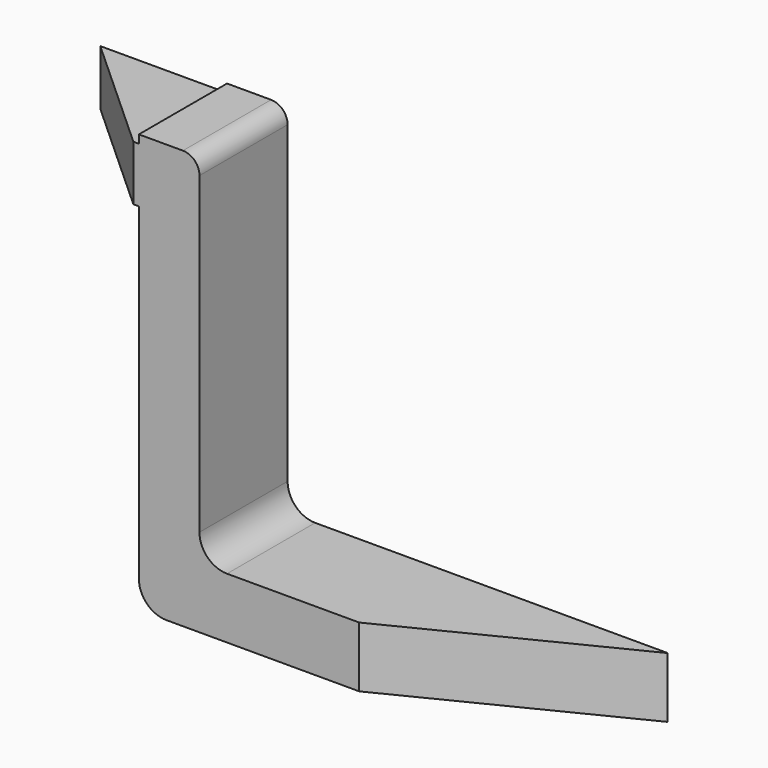
from build123d import *

# Parameters (mm, degrees)
BOX088_W                = 80
BOX088_H                = 20
BOX088_DEPTH            = 11
BOX089_W                = 34
BOX089_H                = 20
BOX089_DEPTH            = 10
BOX087_W                = 11
BOX087_H                = 20
BOX087_DEPTH            = 76
FILLET001006007031013_R = 5
FILLET001006007031014_R = 3
CHAMFER_SIZE2           = 22
CHAMFER_SIZE            = 19.99
CHAMFER011006013_SIZE2  = 19.99
CHAMFER011006013_SIZE   = 40


with BuildPart() as cube:
    # Box088 → Box088 (new body)
    with BuildSketch(Plane.XY):
        with Locations((40, 10)):
            Rectangle(BOX088_W, BOX088_H)
    extrude(amount=BOX088_DEPTH)


with BuildPart() as box089:
    # Box089 → Box089 (new body)
    with BuildSketch(Plane(origin=(-23, 0, 64.5), x_dir=(1, 0, 0), z_dir=(0, 0, 1))):
        with Locations((17, 10)):
            Rectangle(BOX089_W, BOX089_H)
    extrude(amount=BOX089_DEPTH)


with BuildPart() as chamfer011006013:
    # Box087 → Box087 (new body)
    with BuildSketch(Plane.XY):
        with Locations((5.5, 10)):
            Rectangle(BOX087_W, BOX087_H)
    extrude(amount=BOX087_DEPTH)

    # Fusion: union Cube, Box089
    add(cube.part)
    add(box089.part)

    # Fillet001006007031013
    fillet001006007031013_edges = [chamfer011006013.edges().sort_by_distance(p)[0] for p in [
        (11, 10, 11),
        (0, 10, 0),
    ]]
    fillet(fillet001006007031013_edges, radius=FILLET001006007031013_R)

    # Fillet001006007031014
    fillet001006007031014_edges = [chamfer011006013.edges().sort_by_distance(p)[0] for p in [
        (11, 10, 76),
    ]]
    fillet(fillet001006007031014_edges, radius=FILLET001006007031014_R)

    # Chamfer
    chamfer_edges = [chamfer011006013.edges().sort_by_distance(p)[0] for p in [
        (-23, 0, 69.5),
    ]]
    chamfer_side = chamfer011006013.faces().sort_by_distance((-23, 10, 69.5))[0]
    chamfer(chamfer_edges, length=CHAMFER_SIZE, length2=CHAMFER_SIZE2, reference=chamfer_side)

    # Chamfer011006013
    chamfer011006013_edges = [chamfer011006013.edges().sort_by_distance(p)[0] for p in [
        (80, 0, 5.5),
    ]]
    chamfer011006013_side = chamfer011006013.faces().sort_by_distance((-0.5, 0, 73.38928))[0]
    chamfer(chamfer011006013_edges, length=CHAMFER011006013_SIZE, length2=CHAMFER011006013_SIZE2, reference=chamfer011006013_side)


solid = chamfer011006013.part
